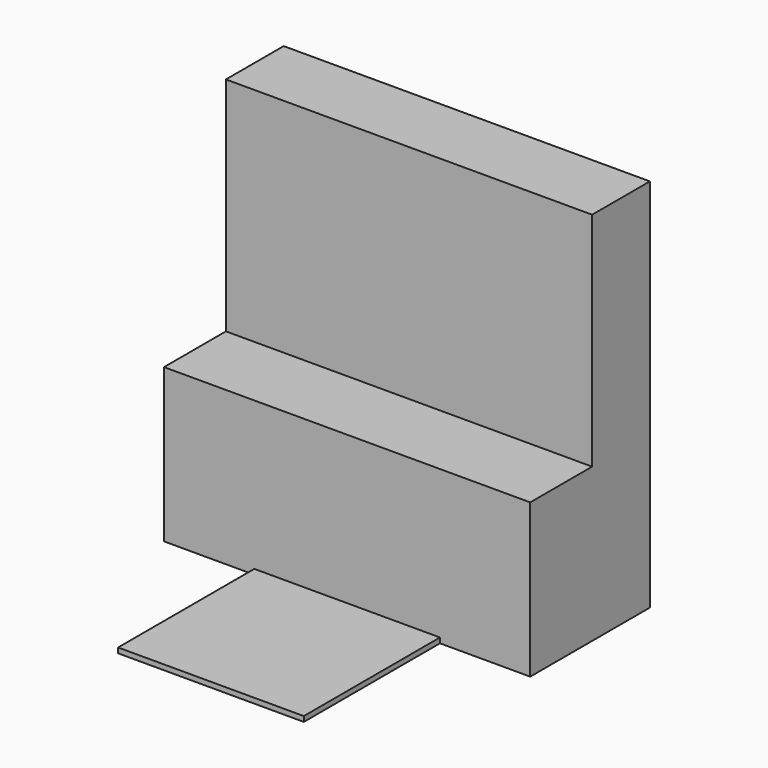
from build123d import *

# Parameters (mm, degrees)
F0_W     = 1803.4
F0_H     = 736.6
F2_DEPTH = 755.65
F1_W     = 914.4
F1_H     = 838.2
F3_DEPTH = 25.4
F4_W     = 1803.4
F4_H     = 355.6
F5_DEPTH = 1092.2


with BuildPart() as f2:
    # F0 (on Top) → F2 (new body)
    with BuildSketch(Plane.XY):
        Rectangle(F0_W, F0_H)
    extrude(amount=F2_DEPTH)

    # F1 (on Top) → F3 (join)
    with BuildSketch(Plane.XY):
        with Locations((0, -787.4)):
            Rectangle(F1_W, F1_H)
    extrude(amount=F3_DEPTH)

    # F4 (on face) → F5 (join)
    with BuildSketch(Plane.XY.offset(755.65)):
        with Locations((0, 190.5)):
            Rectangle(F4_W, F4_H)
    extrude(amount=F5_DEPTH)


solid = f2.part
